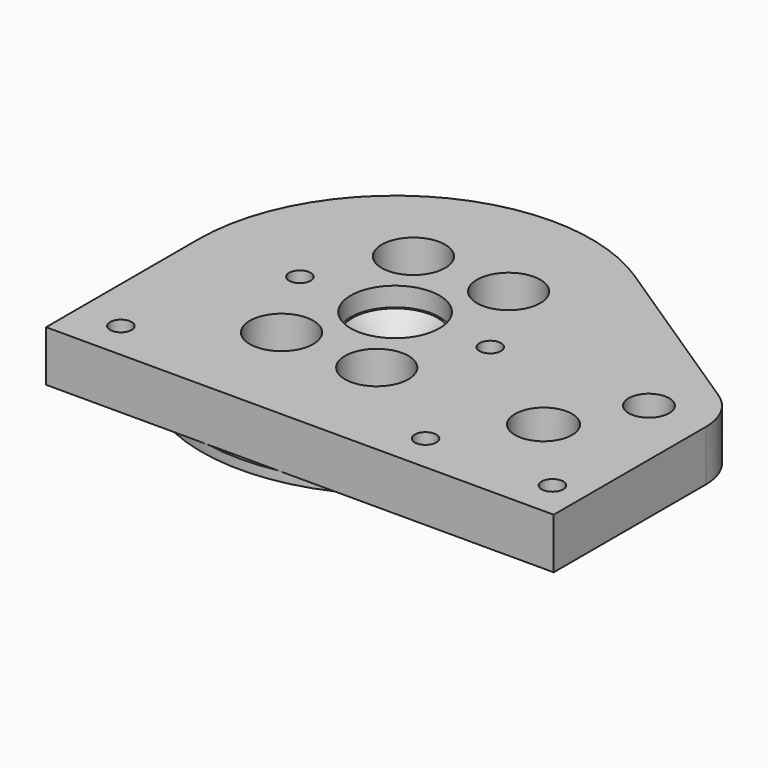
from build123d import *

# Parameters (mm, degrees)
SKETCH_R             = 3.2
SKETCH_R_2           = 1.7
SKETCH_R_3           = 4.5
SKETCH_R_4           = 5
SKETCH_W             = 1.5
SKETCH_H             = 4
PAD_DEPTH            = 8
SKETCH027_R          = 0.15
SKETCH028_R          = 0.15
SKETCH003_R          = 3.2
POCKET001_DEPTH      = 8.001
POCKET001_DEPTH_BACK = 0.001
SKETCH004_R          = 7
POCKET_DEPTH         = 3
SKETCH029_R          = 2.6
POCKET002_DEPTH      = 5
SKETCH030_R          = 30.5
SKETCH030_R_2        = 29.5
PAD001_DEPTH         = 1.5
CHAMFER_SIZE         = 3.5
CHAMFER001_SIZE      = 3.5


with BuildPart() as part:
    # Sketch → Pad (new body)
    with BuildSketch(Plane.XY):
        with BuildLine():
            Line((49, -30), (-31, -30))
            Line((-31, -30), (-31, 0))
            ThreePointArc((0, 31), (-21.92031, 21.92031), (-31, 0))
            ThreePointArc((17.05, 25.890104), (8.899628, 29.69506), (0, 31))
            Line((17.05, 25.890104), (44.95, 7.516482))
            ThreePointArc((49, 0), (47.923068, 4.269075), (44.95, 7.516482))
            Line((49, 0), (49, -30))
        make_face()
        with Locations((40, 0)):
            Circle(SKETCH_R, mode=Mode.SUBTRACT)
        with Locations((-24, -24)):
            Circle(SKETCH_R_2, mode=Mode.SUBTRACT)
        with Locations((24, -24)):
            Circle(SKETCH_R_2, mode=Mode.SUBTRACT)
        with Locations((-15, 0)):
            Circle(SKETCH_R_2, mode=Mode.SUBTRACT)
        with Locations((15, 0)):
            Circle(SKETCH_R_2, mode=Mode.SUBTRACT)
        with Locations((44, -24)):
            Circle(SKETCH_R_2, mode=Mode.SUBTRACT)
        with Locations((33, -12)):
            Circle(SKETCH_R_3, mode=Mode.SUBTRACT)
        with Locations((-7.5, 12.990381)):
            Circle(SKETCH_R_4, mode=Mode.SUBTRACT)
        with Locations((7.5, 12.990381)):
            Circle(SKETCH_R_4, mode=Mode.SUBTRACT)
        with Locations((-7.5, -12.990381)):
            Circle(SKETCH_R_4, mode=Mode.SUBTRACT)
        with Locations((7.5, -12.990381)):
            Circle(SKETCH_R_4, mode=Mode.SUBTRACT)
        with Locations((0.75, 0)):
            Rectangle(SKETCH_W, SKETCH_H, mode=Mode.SUBTRACT)
    extrude(amount=PAD_DEPTH)

    # Sketch002 → Groove (revolve, cut)
    with BuildSketch(Plane.YZ):
        Polygon((23.112994, 0.4), (24.512994, 1.8), (25.487006, 1.8), (27.287006, 0), (27.287006, -10), (20, -10), (20, 0.4), align=None)
    revolve(axis=Axis((0, 0, 0), (0, 0, 1)), mode=Mode.SUBTRACT)

    # Sketch027 → Groove001 (revolve, cut)
    with BuildSketch(Plane.YZ):
        with Locations((22.67, 1.93)):
            Circle(SKETCH027_R)
    revolve(axis=Axis((0, 0, 0), (0, 0, 1)), mode=Mode.SUBTRACT)

    # Sketch028 → Groove002 (revolve, cut)
    with BuildSketch(Plane.YZ):
        with Locations((27.33, 1.93)):
            Circle(SKETCH028_R)
    revolve(axis=Axis((0, 0, 0), (0, 0, 1)), mode=Mode.SUBTRACT)

    # Sketch003 → Pocket001 (cut, two sides)
    with BuildSketch(Plane(origin=(0, 0, 0), x_dir=(1, 0, 0), z_dir=(0, 0, -1))) as pocket001_sk:
        Circle(SKETCH003_R)
    extrude(amount=-POCKET001_DEPTH, mode=Mode.SUBTRACT)
    extrude(pocket001_sk.sketch, amount=POCKET001_DEPTH_BACK, mode=Mode.SUBTRACT)

    # Sketch004 → Pocket (cut)
    with BuildSketch(Plane.XY.offset(8)):
        Circle(SKETCH004_R)
    extrude(amount=-POCKET_DEPTH, mode=Mode.SUBTRACT)

    # Sketch029 → Pocket002 (cut)
    with BuildSketch(Plane(origin=(0, 0, 0), x_dir=(1, 0, 0), z_dir=(0, 0, -1))):
        with Locations((-24, 24)):
            Circle(SKETCH029_R)
        with Locations((24, 24)):
            Circle(SKETCH029_R)
        with Locations((44, 24)):
            Circle(SKETCH029_R)
        with Locations((-15, 0)):
            Circle(SKETCH029_R)
        with Locations((15, 0)):
            Circle(SKETCH029_R)
    extrude(amount=-POCKET002_DEPTH, mode=Mode.SUBTRACT)

    # Sketch030 → Pad001 (new body)
    with BuildSketch(Plane(origin=(0, 0, 0), x_dir=(1, 0, 0), z_dir=(0, 0, -1))):
        Circle(SKETCH030_R)
        Circle(SKETCH030_R_2, mode=Mode.SUBTRACT)
    extrude(amount=PAD001_DEPTH)

    # Chamfer
    chamfer_edges = [part.edges().sort_by_distance(p)[0] for p in [
        (36.8, 0, 0),
    ]]
    chamfer(chamfer_edges, length=CHAMFER_SIZE)

    # Chamfer001
    chamfer001_edges = [part.edges().sort_by_distance(p)[0] for p in [
        (-3.2, 0, 5),
    ]]
    chamfer(chamfer001_edges, length=CHAMFER001_SIZE)


solid = part.part
